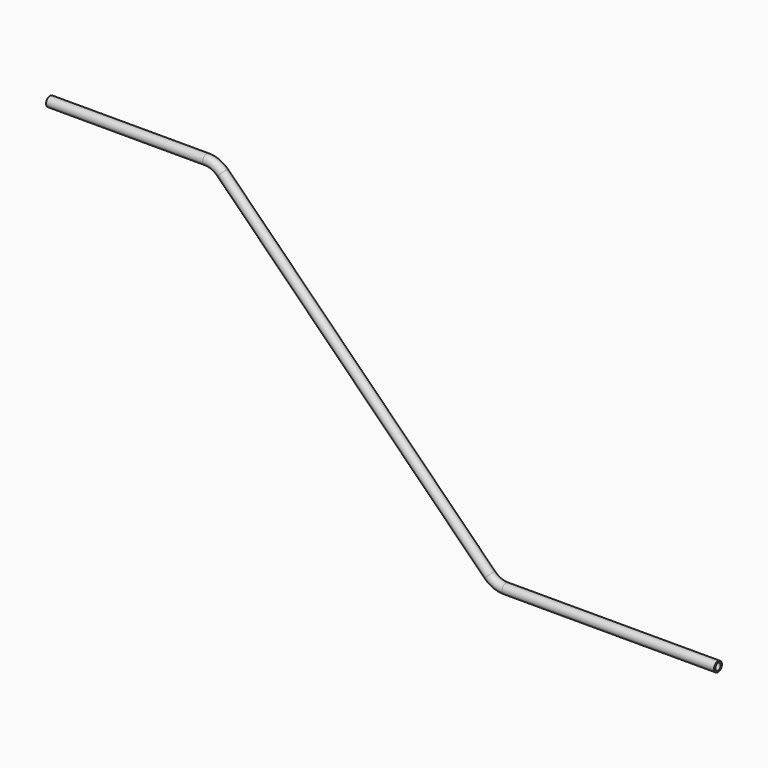
from build123d import *

# Parameters (mm, degrees)
F1_R   = 26.9875
F1_R_2 = 18.8595


with BuildPart() as f2:
    # F2: sweep along a path in F0
    with BuildLine(Plane.XZ) as f2_path:
        Line((0, 0), (862.452442, 0))
        ThreePointArc((862.452442, 0), (910.445728, -9.546458), (951.132471, -36.732471))
        Line((951.132471, -36.732471), (2421.987529, -1507.587529))
        ThreePointArc((2421.987529, -1507.587529), (2462.674272, -1534.773542), (2510.667558, -1544.32))
        Line((2510.667558, -1544.32), (3677.92, -1544.32))
    # F1 (on Right) → F2 (sweep)
    with BuildSketch(Plane.YZ):
        Circle(F1_R)
        Circle(F1_R_2, mode=Mode.SUBTRACT)
    sweep(path=f2_path.line)


solid = f2.part
